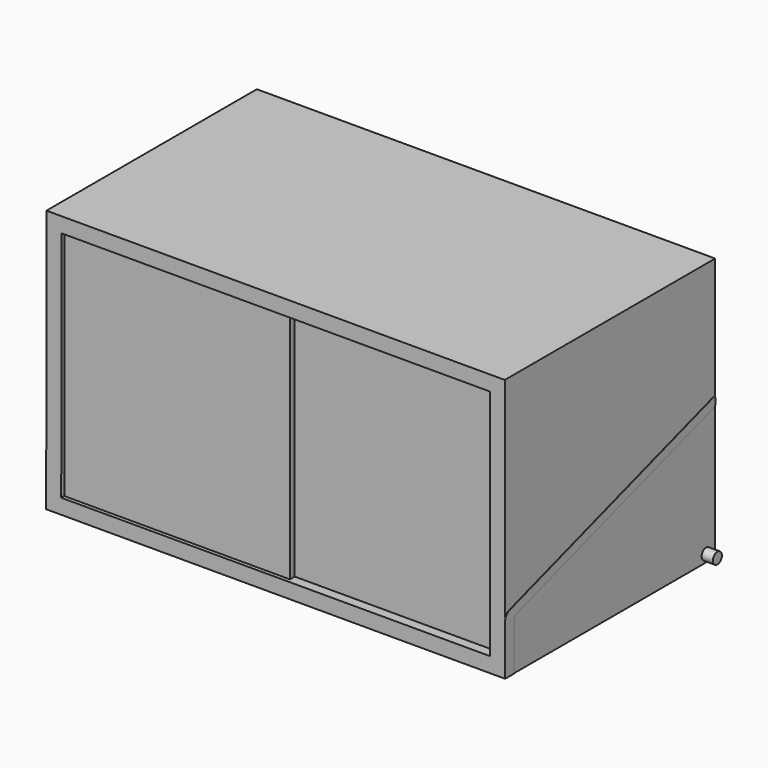
from build123d import *

# Parameters (mm, degrees)
F1_DEPTH  = 305
F3_DEPTH  = 0.5
F4_R      = 7.5
F5_DEPTH  = 15
F9_DEPTH  = 20
F10_W     = 300
F10_H     = 310.0000008941
F11_DEPTH = 15
F12_W     = 300
F12_H     = 310.0000008941
F13_DEPTH = 7


with BuildPart() as f1:
    # F0 (on Right) → F1 (new body)
    with BuildSketch(Plane.YZ):
        with BuildLine():
            Line((-335, 0), (0, 0))
            Line((0, 0), (0, 180.9889680492))
            ThreePointArc((0, 180.9889680492), (-0.9500720856, 178.0567191021), (-3.4392335551, 176.238809304))
            Line((-3.4392335551, 176.238809304), (-331.5607664449, 68.4274484974))
            ThreePointArc((-331.5607664449, 68.4274484974), (-334.0499279144, 66.6095386993), (-335, 63.6772897522))
            Line((-335, 63.6772897522), (-335, 0))
        make_face()
        with BuildLine():
            Line((-350, 0), (-335, 0))
            Line((-335, 0), (-335, 63.6772897522))
            ThreePointArc((-335, 63.6772897522), (-334.0499279144, 66.6095386993), (-331.5607664449, 68.4274484974))
            Line((-331.5607664449, 68.4274484974), (-3.4392335551, 176.238809304))
            ThreePointArc((-3.4392335551, 176.238809304), (-0.9500720856, 178.0567191021), (0, 180.9889680492))
            Line((0, 180.9889680492), (0, 185.8564965109))
            ThreePointArc((0, 185.8564965109), (-1.2406506317, 188.2864532596), (-3.9364598669, 188.706591758))
            Line((-3.9364598669, 188.706591758), (-343.1215328897, 77.2600677648))
            ThreePointArc((-343.1215328897, 77.2600677648), (-348.0998558289, 73.6242481686), (-350, 67.7597502744))
            Line((-350, 67.7597502744), (-350, 0))
        make_face()
        with BuildLine():
            ThreePointArc((-3.9364598669, 188.706591758), (-1.2406506317, 188.2864532596), (0, 185.8564965109))
            Line((0, 185.8564965109), (0, 350))
            Line((0, 350), (-350, 350))
            Line((-350, 350), (-350, 67.7597502744))
            ThreePointArc((-350, 67.7597502744), (-348.0998558289, 73.6242481686), (-343.1215328897, 77.2600677648))
            Line((-343.1215328897, 77.2600677648), (-3.9364598669, 188.706591758))
        make_face()
    extrude(amount=F1_DEPTH)

    # F4 (on face) → F5 (join)
    with BuildSketch(Plane.YZ.offset(305)):
        with Locations((-15, 10)):
            Circle(F4_R)
    extrude(amount=F5_DEPTH)


with BuildPart() as f3:
    # F2 (on face) → F3 (new body)
    with BuildSketch(Plane.YZ.offset(305)):
        with BuildLine():
            ThreePointArc((0, 185.8564965109), (-1.2406506317, 188.2864532596), (-3.9364598669, 188.706591758))
            Line((-3.9364598669, 188.706591758), (-343.1215328897, 77.2600677648))
            ThreePointArc((-343.1215328897, 77.2600677648), (-348.0998558289, 73.6242481686), (-350, 67.7597502744))
            Line((-350, 67.7597502744), (-350, 0))
            Line((-350, 0), (-335, 0))
            Line((-335, 0), (-335, 63.6772897522))
            ThreePointArc((-335, 63.6772897522), (-334.0499279144, 66.6095386993), (-331.5607664449, 68.4274484974))
            Line((-331.5607664449, 68.4274484974), (-3.4392335551, 176.238809304))
            ThreePointArc((-3.4392335551, 176.238809304), (-0.9500720856, 178.0567191021), (0, 180.9889680492))
            Line((0, 180.9889680492), (0, 185.8564965109))
        make_face()
    extrude(amount=F3_DEPTH)


with BuildPart() as f6_1:
    # F6: instance of F1
    add(f1.part.mirror(Plane.YZ))


with BuildPart() as f6_2:
    # F6: instance of F3
    add(f3.part.mirror(Plane.YZ))


with BuildPart() as f6_1_1:
    add(f6_1.part)

    # F7: union F1, F6_2, F3
    add(f1.part)
    add(f6_2.part)
    add(f3.part)

    # F8 (on face) → F9 (cut)
    with BuildSketch(Plane.XZ.offset(350)):
        Polygon((-285.000000447, 47.7597507214), (-285.500000447, 47.7597507214), (-285.500000447, 19.999999553), (285.500000447, 19.999999553), (285.500000447, 47.7597507214), (285.000000447, 47.7597507214), (285.000000447, 330.000000447), (-285.000000447, 330.000000447), align=None)
    extrude(amount=-F9_DEPTH, mode=Mode.SUBTRACT)


with BuildPart() as f11:
    # F10 (on face) → F11 (new body)
    with BuildSketch(Plane.XZ.offset(330)):
        with Locations((-135.000000447, 175)):
            Rectangle(F10_W, F10_H)
    extrude(amount=F11_DEPTH)

    # F12 (on face) → F13 (join)
    with BuildSketch(Plane.XZ.offset(330)):
        with Locations((135.000000447, 175)):
            Rectangle(F12_W, F12_H)
    extrude(amount=F13_DEPTH)


solid = Compound([f6_1_1.part, f11.part])
